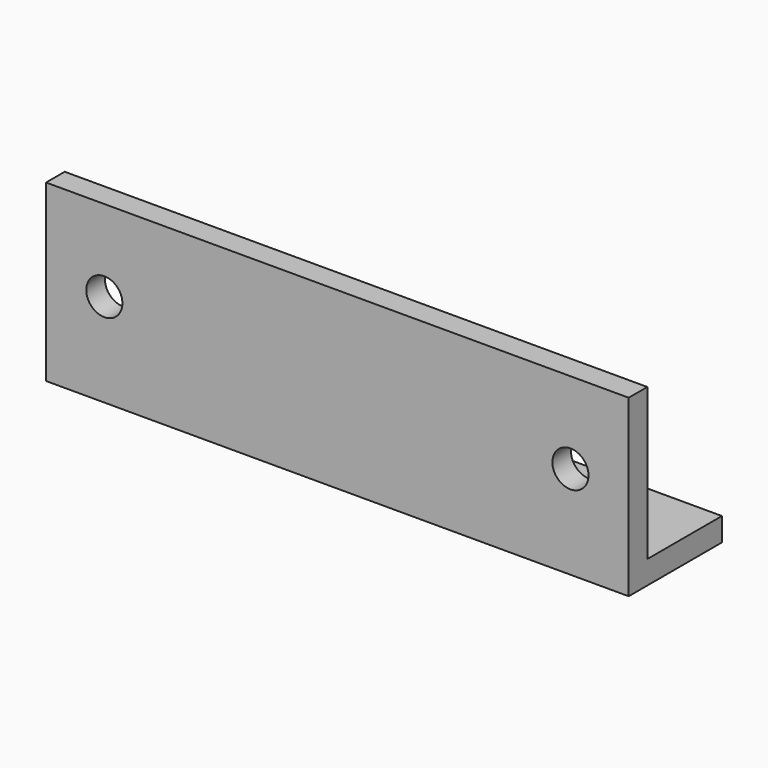
from build123d import *

# Parameters (mm, degrees)
PAD043_DEPTH    = 50
SKETCH249_R     = 1.55
POCKET206_DEPTH = 15.001
SKETCH250_R     = 1.55
POCKET207_DEPTH = 10.001


with BuildPart() as part:
    # Sketch248 → Pad043 (new body)
    with BuildSketch(Plane.YZ):
        Polygon((0, 0), (0, 15), (2, 15), (2, 2), (10, 2), (10, 0), align=None)
    extrude(amount=PAD043_DEPTH)

    # Sketch249 (on Face6 of Pad043) → Pocket206 (cut, through all)
    with BuildSketch(Plane.YX):
        with Locations((5, 38)):
            Circle(SKETCH249_R)
        with Locations((5, 12)):
            Circle(SKETCH249_R)
    extrude(amount=-POCKET206_DEPTH, mode=Mode.SUBTRACT)

    # Sketch250 (on Face1 of Pocket206) → Pocket207 (cut, through all)
    with BuildSketch(Plane(origin=(0, 0, 0), x_dir=(0, 0, -1), z_dir=(0, -1, 0))):
        with Locations((-8, 45)):
            Circle(SKETCH250_R)
        with Locations((-8, 5)):
            Circle(SKETCH250_R)
    extrude(amount=-POCKET207_DEPTH, mode=Mode.SUBTRACT)


with BuildPart() as part_1:
    # Body044 placement: moved
    add(part.part.moved(Location((-120, -10, 18))))


solid = part_1.part
